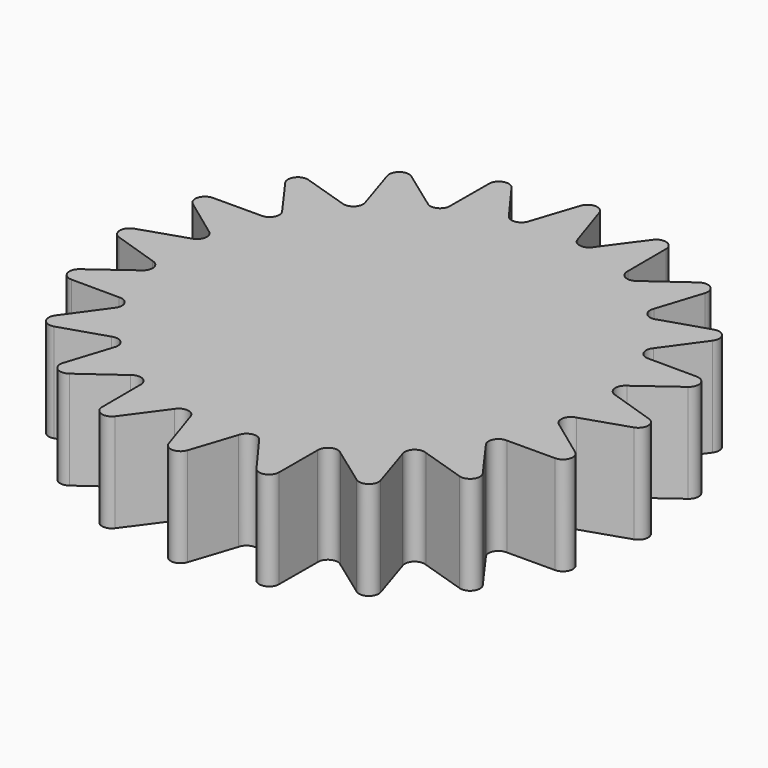
from build123d import *

# Parameters (mm, degrees)
F1_DEPTH = 5


with BuildPart() as f1:
    # F0 (on Top) → F1 (new body)
    with BuildSketch(Plane.XY):
        with BuildLine():
            Line((-0.474925, 13.057005), (-1.233272, 10.753499))
            ThreePointArc((-1.233272, 10.753499), (-1.642562, 10.370728), (-2.150102, 10.608287))
            Line((-2.150102, 10.608287), (-3.583156, 12.564709))
            ThreePointArc((-3.583156, 12.564709), (-4.141029, 12.744778), (-4.486517, 12.271189))
            Line((-4.486517, 12.271189), (-4.495926, 9.846083))
            ThreePointArc((-4.495926, 9.846083), (-4.7669, 9.355569), (-5.32301, 9.424663))
            Line((-5.32301, 9.424663), (-7.290492, 10.842493))
            ThreePointArc((-7.290492, 10.842493), (-7.876706, 10.841355), (-8.058937, 10.284185))
            Line((-8.058937, 10.284185), (-7.318486, 7.974864))
            ThreePointArc((-7.318486, 7.974864), (-7.424621, 7.424621), (-7.974864, 7.318486))
            Line((-7.974864, 7.318486), (-10.284185, 8.058937))
            ThreePointArc((-10.284185, 8.058937), (-10.841355, 7.876706), (-10.842493, 7.290492))
            Line((-10.842493, 7.290492), (-9.424663, 5.32301))
            ThreePointArc((-9.424663, 5.32301), (-9.355569, 4.7669), (-9.846083, 4.495926))
            Line((-9.846083, 4.495926), (-12.271189, 4.486517))
            ThreePointArc((-12.271189, 4.486517), (-12.744778, 4.141029), (-12.564709, 3.583156))
            Line((-12.564709, 3.583156), (-10.608287, 2.150102))
            ThreePointArc((-10.608287, 2.150102), (-10.370728, 1.642562), (-10.753499, 1.233272))
            Line((-10.753499, 1.233272), (-13.057005, 0.474925))
            ThreePointArc((-13.057005, 0.474925), (-13.400652, 0), (-13.057005, -0.474925))
            Line((-13.057005, -0.474925), (-10.753499, -1.233272))
            ThreePointArc((-10.753499, -1.233272), (-10.370728, -1.642562), (-10.608287, -2.150102))
            Line((-10.608287, -2.150102), (-12.564709, -3.583156))
            ThreePointArc((-12.564709, -3.583156), (-12.744778, -4.141029), (-12.271189, -4.486517))
            Line((-12.271189, -4.486517), (-9.846083, -4.495926))
            ThreePointArc((-9.846083, -4.495926), (-9.355569, -4.7669), (-9.424663, -5.32301))
            Line((-9.424663, -5.32301), (-10.842493, -7.290492))
            ThreePointArc((-10.842493, -7.290492), (-10.841355, -7.876706), (-10.284185, -8.058937))
            Line((-10.284185, -8.058937), (-7.974864, -7.318486))
            ThreePointArc((-7.974864, -7.318486), (-7.424621, -7.424621), (-7.318486, -7.974864))
            Line((-7.318486, -7.974864), (-8.058937, -10.284185))
            ThreePointArc((-8.058937, -10.284185), (-7.876706, -10.841355), (-7.290492, -10.842493))
            Line((-7.290492, -10.842493), (-5.32301, -9.424663))
            ThreePointArc((-5.32301, -9.424663), (-4.7669, -9.355569), (-4.495926, -9.846083))
            Line((-4.495926, -9.846083), (-4.486517, -12.271189))
            ThreePointArc((-4.486517, -12.271189), (-4.141029, -12.744778), (-3.583156, -12.564709))
            Line((-3.583156, -12.564709), (-2.150102, -10.608287))
            ThreePointArc((-2.150102, -10.608287), (-1.642562, -10.370728), (-1.233272, -10.753499))
            Line((-1.233272, -10.753499), (-0.474925, -13.057005))
            ThreePointArc((-0.474925, -13.057005), (0, -13.400652), (0.474925, -13.057005))
            Line((0.474925, -13.057005), (1.233272, -10.753499))
            ThreePointArc((1.233272, -10.753499), (1.642562, -10.370728), (2.150102, -10.608287))
            Line((2.150102, -10.608287), (3.583156, -12.564709))
            ThreePointArc((3.583156, -12.564709), (4.141029, -12.744778), (4.486517, -12.271189))
            Line((4.486517, -12.271189), (4.495926, -9.846083))
            ThreePointArc((4.495926, -9.846083), (4.7669, -9.355569), (5.32301, -9.424663))
            Line((5.32301, -9.424663), (7.290492, -10.842493))
            ThreePointArc((7.290492, -10.842493), (7.876706, -10.841355), (8.058937, -10.284185))
            Line((8.058937, -10.284185), (7.318486, -7.974864))
            ThreePointArc((7.318486, -7.974864), (7.424621, -7.424621), (7.974864, -7.318486))
            Line((7.974864, -7.318486), (10.284185, -8.058937))
            ThreePointArc((10.284185, -8.058937), (10.841355, -7.876706), (10.842493, -7.290492))
            Line((10.842493, -7.290492), (9.424663, -5.32301))
            ThreePointArc((9.424663, -5.32301), (9.355569, -4.7669), (9.846083, -4.495926))
            Line((9.846083, -4.495926), (12.271189, -4.486517))
            ThreePointArc((12.271189, -4.486517), (12.744778, -4.141029), (12.564709, -3.583156))
            Line((12.564709, -3.583156), (10.608287, -2.150102))
            ThreePointArc((10.608287, -2.150102), (10.370728, -1.642562), (10.753499, -1.233272))
            Line((10.753499, -1.233272), (13.057005, -0.474925))
            ThreePointArc((13.057005, -0.474925), (13.400652, 0), (13.057005, 0.474925))
            Line((13.057005, 0.474925), (10.753499, 1.233272))
            ThreePointArc((10.753499, 1.233272), (10.370728, 1.642562), (10.608287, 2.150102))
            Line((10.608287, 2.150102), (12.564709, 3.583156))
            ThreePointArc((12.564709, 3.583156), (12.744778, 4.141029), (12.271189, 4.486517))
            Line((12.271189, 4.486517), (9.846083, 4.495926))
            ThreePointArc((9.846083, 4.495926), (9.355569, 4.7669), (9.424663, 5.32301))
            Line((9.424663, 5.32301), (10.842493, 7.290492))
            ThreePointArc((10.842493, 7.290492), (10.841355, 7.876706), (10.284185, 8.058937))
            Line((10.284185, 8.058937), (7.974864, 7.318486))
            ThreePointArc((7.974864, 7.318486), (7.424621, 7.424621), (7.318486, 7.974864))
            Line((7.318486, 7.974864), (8.058937, 10.284185))
            ThreePointArc((8.058937, 10.284185), (7.876706, 10.841355), (7.290492, 10.842493))
            Line((7.290492, 10.842493), (5.32301, 9.424663))
            ThreePointArc((5.32301, 9.424663), (4.7669, 9.355569), (4.495926, 9.846083))
            Line((4.495926, 9.846083), (4.486517, 12.271189))
            ThreePointArc((4.486517, 12.271189), (4.141029, 12.744778), (3.583156, 12.564709))
            Line((3.583156, 12.564709), (2.150102, 10.608287))
            ThreePointArc((2.150102, 10.608287), (1.642562, 10.370728), (1.233272, 10.753499))
            Line((1.233272, 10.753499), (0.474925, 13.057005))
            ThreePointArc((0.474925, 13.057005), (0, 13.400652), (-0.474925, 13.057005))
        make_face()
        with BuildLine():
            Line((-0.474925, 13.057005), (-1.233272, 10.753499))
            ThreePointArc((-1.233272, 10.753499), (-1.642562, 10.370728), (-2.150102, 10.608287))
            Line((-2.150102, 10.608287), (-3.583156, 12.564709))
            ThreePointArc((-3.583156, 12.564709), (-4.141029, 12.744778), (-4.486517, 12.271189))
            Line((-4.486517, 12.271189), (-4.495926, 9.846083))
            ThreePointArc((-4.495926, 9.846083), (-4.7669, 9.355569), (-5.32301, 9.424663))
            Line((-5.32301, 9.424663), (-7.290492, 10.842493))
            ThreePointArc((-7.290492, 10.842493), (-7.876706, 10.841355), (-8.058937, 10.284185))
            Line((-8.058937, 10.284185), (-7.318486, 7.974864))
            ThreePointArc((-7.318486, 7.974864), (-7.424621, 7.424621), (-7.974864, 7.318486))
            Line((-7.974864, 7.318486), (-10.284185, 8.058937))
            ThreePointArc((-10.284185, 8.058937), (-10.841355, 7.876706), (-10.842493, 7.290492))
            Line((-10.842493, 7.290492), (-9.424663, 5.32301))
            ThreePointArc((-9.424663, 5.32301), (-9.355569, 4.7669), (-9.846083, 4.495926))
            Line((-9.846083, 4.495926), (-12.271189, 4.486517))
            ThreePointArc((-12.271189, 4.486517), (-12.744778, 4.141029), (-12.564709, 3.583156))
            Line((-12.564709, 3.583156), (-10.608287, 2.150102))
            ThreePointArc((-10.608287, 2.150102), (-10.370728, 1.642562), (-10.753499, 1.233272))
            Line((-10.753499, 1.233272), (-13.057005, 0.474925))
            ThreePointArc((-13.057005, 0.474925), (-13.400652, 0), (-13.057005, -0.474925))
            Line((-13.057005, -0.474925), (-10.753499, -1.233272))
            ThreePointArc((-10.753499, -1.233272), (-10.370728, -1.642562), (-10.608287, -2.150102))
            Line((-10.608287, -2.150102), (-12.564709, -3.583156))
            ThreePointArc((-12.564709, -3.583156), (-12.744778, -4.141029), (-12.271189, -4.486517))
            Line((-12.271189, -4.486517), (-9.846083, -4.495926))
            ThreePointArc((-9.846083, -4.495926), (-9.355569, -4.7669), (-9.424663, -5.32301))
            Line((-9.424663, -5.32301), (-10.842493, -7.290492))
            ThreePointArc((-10.842493, -7.290492), (-10.841355, -7.876706), (-10.284185, -8.058937))
            Line((-10.284185, -8.058937), (-7.974864, -7.318486))
            ThreePointArc((-7.974864, -7.318486), (-7.424621, -7.424621), (-7.318486, -7.974864))
            Line((-7.318486, -7.974864), (-8.058937, -10.284185))
            ThreePointArc((-8.058937, -10.284185), (-7.876706, -10.841355), (-7.290492, -10.842493))
            Line((-7.290492, -10.842493), (-5.32301, -9.424663))
            ThreePointArc((-5.32301, -9.424663), (-4.7669, -9.355569), (-4.495926, -9.846083))
            Line((-4.495926, -9.846083), (-4.486517, -12.271189))
            ThreePointArc((-4.486517, -12.271189), (-4.141029, -12.744778), (-3.583156, -12.564709))
            Line((-3.583156, -12.564709), (-2.150102, -10.608287))
            ThreePointArc((-2.150102, -10.608287), (-1.642562, -10.370728), (-1.233272, -10.753499))
            Line((-1.233272, -10.753499), (-0.474925, -13.057005))
            ThreePointArc((-0.474925, -13.057005), (0, -13.400652), (0.474925, -13.057005))
            Line((0.474925, -13.057005), (1.233272, -10.753499))
            ThreePointArc((1.233272, -10.753499), (1.642562, -10.370728), (2.150102, -10.608287))
            Line((2.150102, -10.608287), (3.583156, -12.564709))
            ThreePointArc((3.583156, -12.564709), (4.141029, -12.744778), (4.486517, -12.271189))
            Line((4.486517, -12.271189), (4.495926, -9.846083))
            ThreePointArc((4.495926, -9.846083), (4.7669, -9.355569), (5.32301, -9.424663))
            Line((5.32301, -9.424663), (7.290492, -10.842493))
            ThreePointArc((7.290492, -10.842493), (7.876706, -10.841355), (8.058937, -10.284185))
            Line((8.058937, -10.284185), (7.318486, -7.974864))
            ThreePointArc((7.318486, -7.974864), (7.424621, -7.424621), (7.974864, -7.318486))
            Line((7.974864, -7.318486), (10.284185, -8.058937))
            ThreePointArc((10.284185, -8.058937), (10.841355, -7.876706), (10.842493, -7.290492))
            Line((10.842493, -7.290492), (9.424663, -5.32301))
            ThreePointArc((9.424663, -5.32301), (9.355569, -4.7669), (9.846083, -4.495926))
            Line((9.846083, -4.495926), (12.271189, -4.486517))
            ThreePointArc((12.271189, -4.486517), (12.744778, -4.141029), (12.564709, -3.583156))
            Line((12.564709, -3.583156), (10.608287, -2.150102))
            ThreePointArc((10.608287, -2.150102), (10.370728, -1.642562), (10.753499, -1.233272))
            Line((10.753499, -1.233272), (13.057005, -0.474925))
            ThreePointArc((13.057005, -0.474925), (13.400652, 0), (13.057005, 0.474925))
            Line((13.057005, 0.474925), (10.753499, 1.233272))
            ThreePointArc((10.753499, 1.233272), (10.370728, 1.642562), (10.608287, 2.150102))
            Line((10.608287, 2.150102), (12.564709, 3.583156))
            ThreePointArc((12.564709, 3.583156), (12.744778, 4.141029), (12.271189, 4.486517))
            Line((12.271189, 4.486517), (9.846083, 4.495926))
            ThreePointArc((9.846083, 4.495926), (9.355569, 4.7669), (9.424663, 5.32301))
            Line((9.424663, 5.32301), (10.842493, 7.290492))
            ThreePointArc((10.842493, 7.290492), (10.841355, 7.876706), (10.284185, 8.058937))
            Line((10.284185, 8.058937), (7.974864, 7.318486))
            ThreePointArc((7.974864, 7.318486), (7.424621, 7.424621), (7.318486, 7.974864))
            Line((7.318486, 7.974864), (8.058937, 10.284185))
            ThreePointArc((8.058937, 10.284185), (7.876706, 10.841355), (7.290492, 10.842493))
            Line((7.290492, 10.842493), (5.32301, 9.424663))
            ThreePointArc((5.32301, 9.424663), (4.7669, 9.355569), (4.495926, 9.846083))
            Line((4.495926, 9.846083), (4.486517, 12.271189))
            ThreePointArc((4.486517, 12.271189), (4.141029, 12.744778), (3.583156, 12.564709))
            Line((3.583156, 12.564709), (2.150102, 10.608287))
            ThreePointArc((2.150102, 10.608287), (1.642562, 10.370728), (1.233272, 10.753499))
            Line((1.233272, 10.753499), (0.474925, 13.057005))
            ThreePointArc((0.474925, 13.057005), (0, 13.400652), (-0.474925, 13.057005))
        make_face()
    extrude(amount=F1_DEPTH)


solid = f1.part
